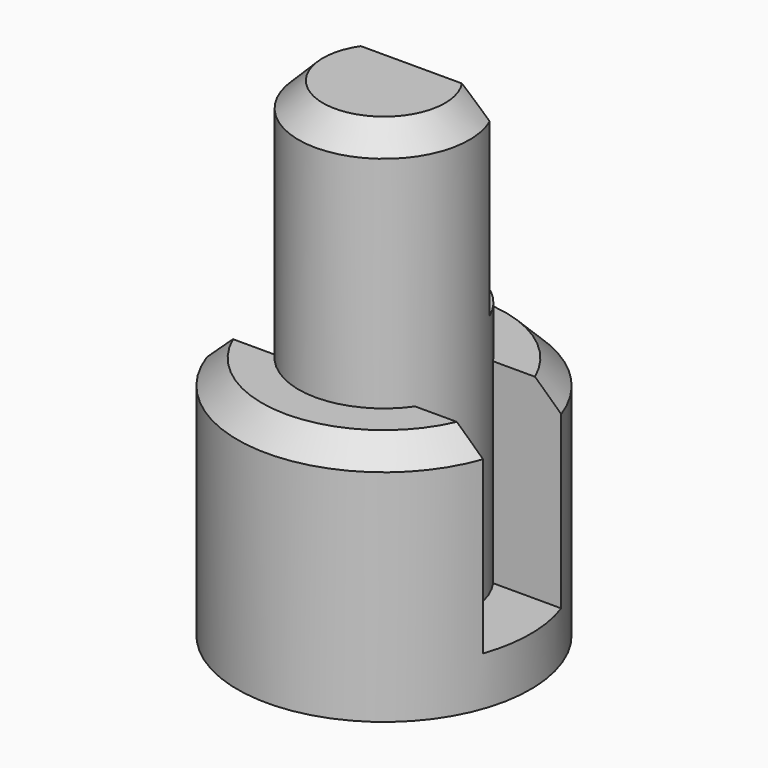
from build123d import *

# Parameters (mm, degrees)
SKETCH_R        = 3
PAD_DEPTH       = 5
SKETCH001_W     = 15.685142
SKETCH001_H     = 2
POCKET_DEPTH    = 4
SKETCH002_R     = 1.75
PAD001_DEPTH    = 10
SKETCH003_W     = 8.687401
SKETCH003_H     = 3.263626
POCKET001_DEPTH = 4
CHAMFER_SIZE    = 0.5


with BuildPart() as part:
    # Sketch → Pad (new body)
    with BuildSketch(Plane(origin=(0, 0, 0), x_dir=(0, 1, 0), z_dir=(0, 0, 1))):
        Circle(SKETCH_R)
    extrude(amount=PAD_DEPTH)

    # Sketch001 → Pocket (cut)
    with BuildSketch(Plane.XY.offset(5)):
        Rectangle(SKETCH001_W, SKETCH001_H)
    extrude(amount=-POCKET_DEPTH, mode=Mode.SUBTRACT)

    # Sketch002 → Pad001 (join)
    with BuildSketch(Plane(origin=(0, 0, 0), x_dir=(0, 1, 0), z_dir=(0, 0, 1))):
        Circle(SKETCH002_R)
    extrude(amount=PAD001_DEPTH)

    # Sketch003 → Pocket001 (cut)
    with BuildSketch(Plane.XY.offset(10)):
        with Locations((-0.081454, 2.331813)):
            Rectangle(SKETCH003_W, SKETCH003_H)
    extrude(amount=-POCKET001_DEPTH, mode=Mode.SUBTRACT)

    # Chamfer
    chamfer_edges = [part.edges().sort_by_distance(p)[0] for p in [
        (0, -1.75, 10),
        (0, -3, 5),
        (-1.732051, 2.44949, 5),
        (1.732051, 2.44949, 5),
    ]]
    chamfer(chamfer_edges, length=CHAMFER_SIZE)


solid = part.part
